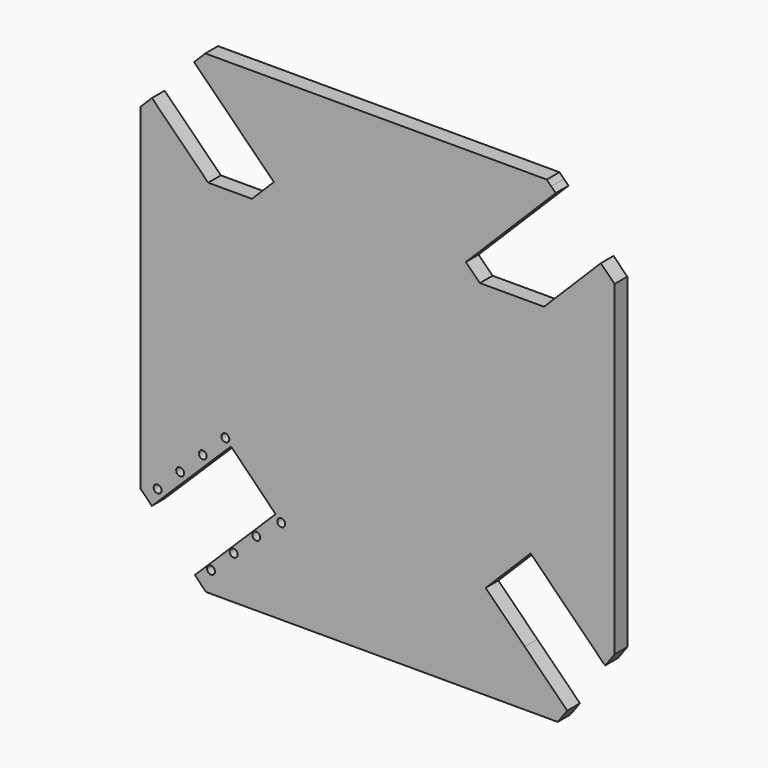
from build123d import *

# Parameters (mm, degrees)
F0_R     = 1.25
F1_DEPTH = 5


with BuildPart() as f1:
    # F0 (on Front) → F1 (new body)
    with BuildSketch(Plane.XZ):
        Polygon((6.786142438, 71.3994509603), (-47.4369410245, 71.3994509603), (-49.2047079774, 69.6316840073), (-50.9724749304, 67.8639170544), (-25.8756614631, 42.767103587), (-32.7625148906, 35.8802501595), (6.786142438, 35.8802501595), align=None)
        Polygon((60.0097865145, 71.3994509603), (6.786142438, 71.3994509603), (6.786142438, 35.8802501595), (31.8893770085, 35.8802501595), (38.9604448203, 35.8802501595), (34.5565948475, 40.2841001324), (33.1410550573, 41.6996399226), (31.725515267, 43.1151797128), align=None)
        Polygon((61.4253263047, 69.9839111701), (60.0097865145, 71.3994509603), (31.725515267, 43.1151797128), (33.1410550573, 41.6996399226), align=None)
        Polygon((31.8893770085, 35.8802501595), (6.786142438, 35.8802501595), (-32.7625148906, 35.8802501595), (-39.6493683181, 28.993396732), (-46.5362217456, 35.8802501595), (-50.0717556515, 35.8802501595), (-53.6072895575, 35.8802501595), (-67.777570664, 35.8802501595), (-67.777570664, -55.8799244453), (-64.2630553215, -59.4363526967), (-60.7066282539, -55.921838524), (-53.5937741188, -48.8928101788), (-46.4809199836, -41.8637818335), (-39.3680658485, -34.8347534882), (-25.3196320005, -49.0507241572), (-50.7410133953, -74.1725116992), (-47.2264980528, -77.7289399505), (63.4629911962, -77.7289399505), (64.9535632249, -75.6839780733), (52.1188920999, -62.8493069483), (37.2392590976, -47.969673946), (46.0363051715, -39.0890504903), (54.8333512454, -30.2084270345), (79.6656659688, -55.0407417579), (79.8842687626, -55.2000812612), (81.3498555399, -53.1893974231), (81.3498555399, -3.1647444951), (81.3498555399, 35.8802501595), (67.8153865031, 35.8802501595), (53.3879156617, 21.4527793181), (49.050957634, 25.7897373459), (42.3955497797, 32.4451452001), (38.9604448203, 35.8802501595), align=None)
        with Locations((-45.6380215497, -71.1694267488)):
            Circle(F0_R, mode=Mode.SUBTRACT)
        with Locations((-38.5251674146, -64.1403984036)):
            Circle(F0_R, mode=Mode.SUBTRACT)
        with BuildLine():
            ThreePointArc((-61.2167535075, -54.1407226182), (-61.3133268638, -54.6224974388), (-61.5881246718, -55.0298296811))
            ThreePointArc((-61.5881246718, -55.0298296811), (-63.6201801511, -53.6589477977), (-61.2167535075, -54.1407226182))
        make_face(mode=Mode.SUBTRACT)
        with BuildLine():
            ThreePointArc((-54.1096345369, -47.1058907127), (-54.2062078933, -47.5876655333), (-54.4810057013, -47.9949977756))
            ThreePointArc((-54.4810057013, -47.9949977756), (-56.5130611806, -46.6241158922), (-54.1096345369, -47.1058907127))
        make_face(mode=Mode.SUBTRACT)
        with Locations((-31.4123132794, -57.1113700583)):
            Circle(F0_R, mode=Mode.SUBTRACT)
        with Locations((-23.5527468072, -50.8386806195)):
            Circle(F0_R, mode=Mode.SUBTRACT)
        with BuildLine():
            ThreePointArc((-47.0025155664, -40.0710588072), (-47.0990889228, -40.5528336278), (-47.3738867308, -40.9601658701))
            ThreePointArc((-47.3738867308, -40.9601658701), (-49.40594221, -39.5892839867), (-47.0025155664, -40.0710588072))
        make_face(mode=Mode.SUBTRACT)
        with Locations((-41.1453965959, -33.0362269017)):
            Circle(F0_R, mode=Mode.SUBTRACT)
        Polygon((62.8408660949, 68.5683713798), (61.4253263047, 69.9839111701), (33.1410550573, 41.6996399226), (34.5565948475, 40.2841001324), align=None)
        Polygon((-39.6493683181, 28.993396732), (-32.7625148906, 35.8802501595), (-46.5362217456, 35.8802501595), align=None)
        Polygon((-50.0717556515, 35.8802501595), (-46.5362217456, 35.8802501595), (-64.2420367581, 53.586065172), (-66.009803711, 51.818298219), align=None)
        Polygon((45.8306547391, 35.8802501595), (38.9604448203, 35.8802501595), (42.3955497797, 32.4451452001), align=None)
        Polygon((-53.6072895575, 35.8802501595), (-50.0717556515, 35.8802501595), (-66.009803711, 51.818298219), (-67.777570664, 50.050531266), align=None)
        Polygon((45.8306547391, 35.8802501595), (42.3955497797, 32.4451452001), (49.050957634, 25.7897373459), (59.1414704476, 35.8802501595), align=None)
        Polygon((-67.777570664, 35.8802501595), (-53.6072895575, 35.8802501595), (-67.777570664, 50.050531266), align=None)
        Polygon((59.1414704476, 35.8802501595), (49.050957634, 25.7897373459), (53.3879156617, 21.4527793181), (67.8153865031, 35.8802501595), align=None)
        Polygon((77.0128975122, 53.7516772241), (59.1414704476, 35.8802501595), (67.8153865031, 35.8802501595), (81.3498555399, 49.4147191964), align=None)
        Polygon((81.3498555399, 49.4147191964), (67.8153865031, 35.8802501595), (81.3498555399, 35.8802501595), align=None)
        Polygon((78.4294671748, -57.1959685641), (79.8842687626, -55.2000812612), (79.6656659688, -55.0407417579), (54.8333512454, -30.2084270345), (46.0363051715, -39.0890504903), (47.8458608154, -40.8986061341), (54.9169286273, -33.8275383223), (77.8978990158, -56.8085087108), align=None)
        Polygon((47.8458608154, -40.8986061341), (46.0363051715, -39.0890504903), (37.2392590976, -47.969673946), (52.1188920999, -62.8493069483), (53.0607733267, -60.2556542691), (40.7747930035, -47.969673946), align=None)
        Polygon((53.0607733267, -60.2556542691), (52.1188920999, -62.8493069483), (64.9535632249, -75.6839780733), (66.4441352535, -73.639016196), align=None)
    extrude(amount=F1_DEPTH)


solid = f1.part
